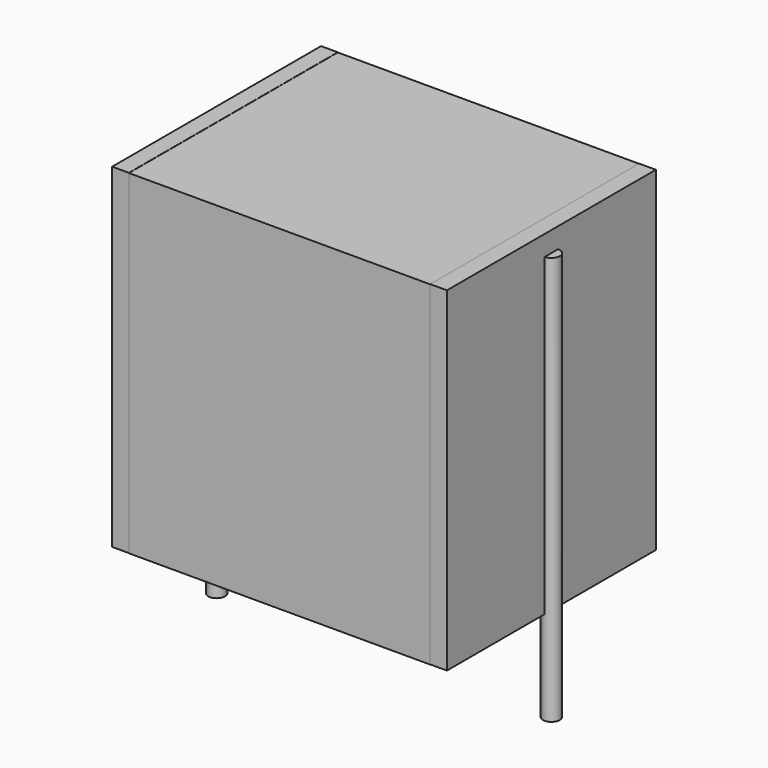
from build123d import *

# Parameters (mm, degrees)
SKETCH_W          = 9
SKETCH_H          = 7.8
PAD_DEPTH         = 10
SKETCH001_R       = 0.25
PAD001_DEPTH      = 9
PAD001_DEPTH_BACK = 3.2
SKETCH002_W       = 0.5
SKETCH002_H       = 7.8
PAD002_DEPTH      = 10


with BuildPart() as pad:
    # Sketch → Pad (new body)
    with BuildSketch(Plane.XY.offset(0.1)):
        with Locations((5, 0)):
            Rectangle(SKETCH_W, SKETCH_H)
    extrude(amount=PAD_DEPTH)


with BuildPart() as pad001:
    # Sketch001 → Pad001 (new body, two sides)
    with BuildSketch(Plane.XY.offset(0.5)) as pad001_sk:
        Circle(SKETCH001_R)
        with Locations((10, 0)):
            Circle(SKETCH001_R)
    extrude(amount=PAD001_DEPTH)
    extrude(pad001_sk.sketch, amount=-PAD001_DEPTH_BACK)


with BuildPart() as pad002:
    # Sketch002 → Pad002 (new body)
    with BuildSketch(Plane.XY.offset(0.105)):
        with Locations((0.25, 0)):
            Rectangle(SKETCH002_W, SKETCH002_H)
        with Locations((9.75, 0)):
            Rectangle(SKETCH002_W, SKETCH002_H)
    extrude(amount=PAD002_DEPTH)


solid = Compound([pad.part, pad001.part, pad002.part])
